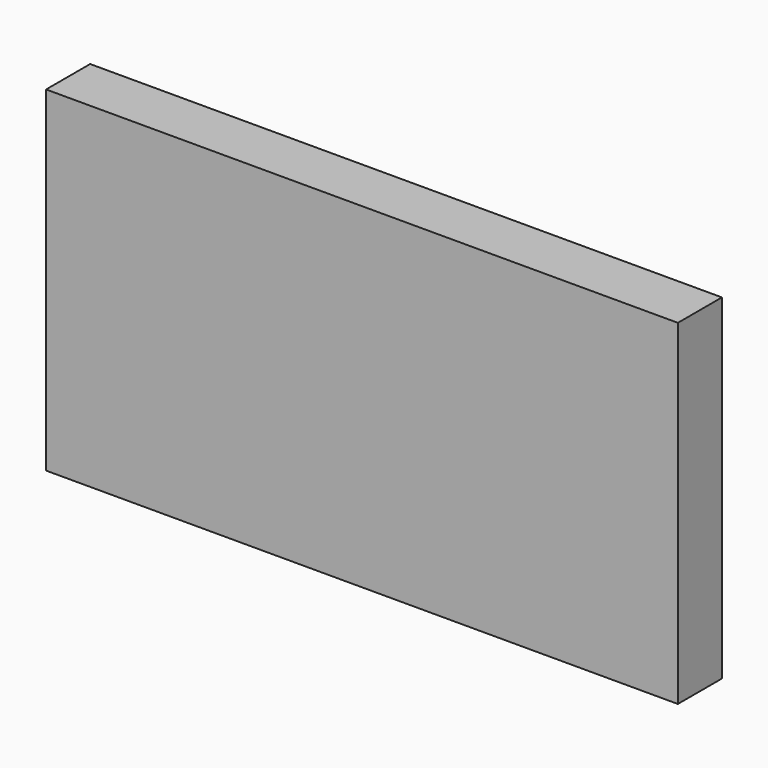
from build123d import *

# Parameters (mm, degrees)
F0_W     = 291.417375
F0_H     = 154.779598
F1_DEPTH = 25.4
F2_R     = 16.495445
F3_DEPTH = 25.4
F4_R     = 18.790255
F5_DEPTH = 25.4


with BuildPart() as f1:
    # F0 (on Front) → F1 (new body)
    with BuildSketch(Plane.XZ):
        with Locations((-4.616522, 8.185603)):
            Rectangle(F0_W, F0_H)
    extrude(amount=F1_DEPTH)


with BuildPart() as f3:
    # F2 (on Right) → F3 (new body)
    with BuildSketch(Plane.YZ):
        with Locations((58.390807, 22.665327)):
            Circle(F2_R)
    extrude(amount=F3_DEPTH)


with BuildPart() as f5:
    # F4 (on Top) → F5 (new body)
    with BuildSketch(Plane.XY):
        with Locations((-55.800684, 53.78779)):
            Circle(F4_R)
    extrude(amount=F5_DEPTH)


solid = Compound([f1.part, f3.part, f5.part])
